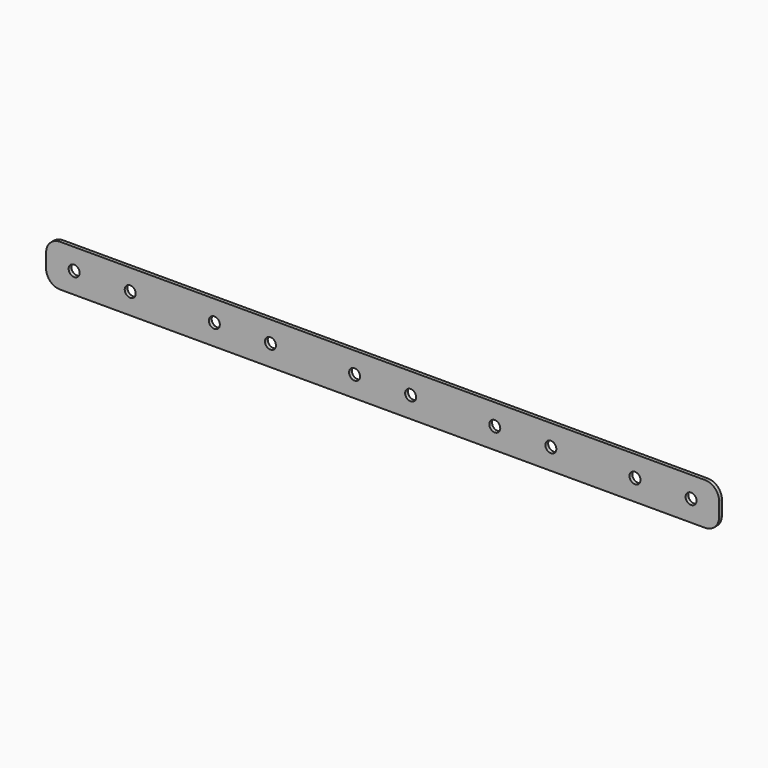
from build123d import *

# Parameters (mm, degrees)
F0_R     = 2.4892
F1_DEPTH = 1.5875


with BuildPart() as f1:
    # F0 (on Front) → F1 (new body)
    with BuildSketch(Plane.XZ):
        with BuildLine():
            Line((146.05, 9.525), (-146.05, 9.525))
            ThreePointArc((-146.05, 9.525), (-150.540128, 7.665128), (-152.4, 3.175))
            Line((-152.4, 3.175), (-152.4, -3.175))
            ThreePointArc((-152.4, -3.175), (-150.540128, -7.665128), (-146.05, -9.525))
            Line((-146.05, -9.525), (-82.55, -9.525))
            Line((-82.55, -9.525), (-19.05, -9.525))
            Line((-19.05, -9.525), (146.05, -9.525))
            ThreePointArc((146.05, -9.525), (150.540128, -7.665128), (152.4, -3.175))
            Line((152.4, -3.175), (152.4, 3.175))
            ThreePointArc((152.4, 3.175), (150.540128, 7.665128), (146.05, 9.525))
        make_face()
        with Locations((-139.7, 0)):
            Circle(F0_R, mode=Mode.SUBTRACT)
        with Locations((-114.3, 0)):
            Circle(F0_R, mode=Mode.SUBTRACT)
        with Locations((-76.2, 0)):
            Circle(F0_R, mode=Mode.SUBTRACT)
        with Locations((-50.8, 0)):
            Circle(F0_R, mode=Mode.SUBTRACT)
        with Locations((-12.7, 0)):
            Circle(F0_R, mode=Mode.SUBTRACT)
        with Locations((12.7, 0)):
            Circle(F0_R, mode=Mode.SUBTRACT)
        with Locations((50.8, 0)):
            Circle(F0_R, mode=Mode.SUBTRACT)
        with Locations((76.2, 0)):
            Circle(F0_R, mode=Mode.SUBTRACT)
        with Locations((114.3, 0)):
            Circle(F0_R, mode=Mode.SUBTRACT)
        with Locations((139.7, 0)):
            Circle(F0_R, mode=Mode.SUBTRACT)
    extrude(amount=F1_DEPTH)


solid = f1.part
